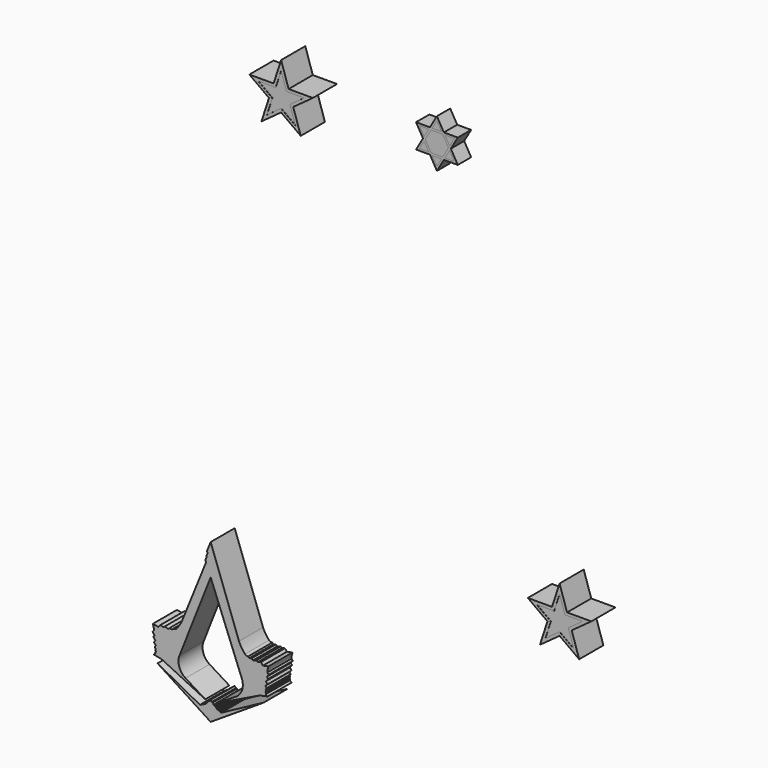
from build123d import *

# Parameters (mm, degrees)
F1_DEPTH  = 1.8
F3_DEPTH  = 1.8
F4_DEPTH  = 1.81
F5_R      = 0.893
F7_DEPTH  = 1
F8_DEPTH  = 1
F10_DEPTH = 1.8
F11_DEPTH = 1.81


with BuildPart() as f1:
    # F0 (on Front) → F1 (new body)
    with BuildSketch(Plane.XZ):
        with BuildLine():
            Line((-3.7793989759, 7.9456018284), (-3.7793989759, 9.8047899082))
            Line((-3.7793989759, 9.8047899082), (-4.0033652825, 9.248157989))
            Line((-4.0033652825, 9.248157989), (-3.9641365643, 9.1561737096))
            Line((-3.9641365643, 9.1561737096), (-4.0387919998, 8.9706297365))
            Line((-4.0387919998, 8.9706297365), (-4.0231005125, 8.9338360247))
            Line((-4.0231005125, 8.9338360247), (-4.097755948, 8.7482920516))
            Line((-4.097755948, 8.7482920516), (-4.054604358, 8.6471093442))
            Line((-4.054604358, 8.6471093442), (-5.4790983376, 5.1242104098))
            ThreePointArc((-5.4790983376, 5.1242104098), (-5.6323983996, 4.827205661), (-5.8375750668, 4.5633586124))
            ThreePointArc((-5.8375750668, 4.5633586124), (-5.9248345866, 4.5112394922), (-6.0261441395, 4.5030540787))
            Line((-6.0261441395, 4.5030540787), (-6.0897720978, 4.4295368716))
            Line((-6.0897720978, 4.4295368716), (-6.2369024381, 4.4733928517))
            Line((-6.2369024381, 4.4733928517), (-6.3161267899, 4.3899244629))
            Line((-6.3161267899, 4.3899244629), (-6.5257647075, 4.4602202252))
            Line((-6.5257647075, 4.4602202252), (-6.6037159413, 4.3946066871))
            Line((-6.6037159413, 4.3946066871), (-6.7897163977, 4.4500489044))
            Line((-6.7897163977, 4.4500489044), (-6.9095618092, 4.3085110374))
            Line((-6.9095618092, 4.3085110374), (-7.2381282225, 4.3713827617))
            Line((-7.2381282225, 4.3713827617), (-7.1835005656, 4.156332463))
            Line((-7.1835005656, 4.156332463), (-7.1793515235, 4.0299049579))
            Line((-7.1793515235, 4.0299049579), (-7.2624403983, 3.9427652955))
            Line((-7.2624403983, 3.9427652955), (-7.1368645877, 3.7887748331))
            Line((-7.1368645877, 3.7887748331), (-7.2138416581, 3.6987969652))
            Line((-7.2138416581, 3.6987969652), (-7.0916982368, 3.5390290432))
            Line((-7.0916982368, 3.5390290432), (-7.1835005656, 3.4045812208))
            Line((-7.1835005656, 3.4045812208), (-7.0657618344, 3.2955408096))
            Line((-7.0657618344, 3.2955408096), (-7.1276929229, 3.1843830366))
            Line((-7.1276929229, 3.1843830366), (-7.0657618344, 3.0859292019))
            Line((-7.0657618344, 3.0859292019), (-7.102814503, 3.0345849227))
            Line((-7.102814503, 3.0345849227), (-7.0567633957, 2.9625971802))
            Line((-7.0567633957, 2.9625971802), (-7.099638693, 2.9128410388))
            Line((-7.099638693, 2.9128410388), (-7.0827002637, 2.853556769))
            Line((-7.0827002637, 2.853556769), (-7.1885641664, 2.7678066399))
            Line((-7.1885641664, 2.7678066399), (-6.7201144993, 2.6730580721))
            Line((-6.7201144993, 2.6730580721), (-4.1001443751, 1.4036657522))
            Line((-4.1001443751, 1.4036657522), (-5.2828337066, 2.1371461917))
            ThreePointArc((-5.2828337066, 2.1371461917), (-5.5300829552, 2.3406050203), (-5.7149343193, 2.6020579971))
            ThreePointArc((-5.7149343193, 2.6020579971), (-5.7378065234, 2.8848545246), (-5.6684375741, 3.1599635258))
            Line((-5.6684375741, 3.1599635258), (-3.7793989759, 7.9456018284))
        make_face()
        with BuildLine():
            Line((-2.0796996142, 5.1242104098), (-3.7793989759, 9.8047899082))
            Line((-3.7793989759, 9.8047899082), (-3.7793989759, 7.9456018284))
            Line((-3.7793989759, 7.9456018284), (-1.8903603777, 3.1599635258))
            ThreePointArc((-1.8903603777, 3.1599635258), (-1.8209914283, 2.8848545246), (-1.8438636325, 2.6020579971))
            ThreePointArc((-1.8438636325, 2.6020579971), (-2.0287149966, 2.3406050203), (-2.2759642452, 2.1371461917))
            Line((-2.2759642452, 2.1371461917), (-3.4586535767, 1.4036657522))
            Line((-3.4586535767, 1.4036657522), (-0.8386834525, 2.6730580721))
            Line((-0.8386834525, 2.6730580721), (-0.3702337854, 2.7678066399))
            Line((-0.3702337854, 2.7678066399), (-0.4760976881, 2.853556769))
            Line((-0.4760976881, 2.853556769), (-0.4591592588, 2.9128410388))
            Line((-0.4591592588, 2.9128410388), (-0.5020345561, 2.9625971802))
            Line((-0.5020345561, 2.9625971802), (-0.4559834488, 3.0345849227))
            Line((-0.4559834488, 3.0345849227), (-0.4930361174, 3.0859292019))
            Line((-0.4930361174, 3.0859292019), (-0.4311050288, 3.1843830366))
            Line((-0.4311050288, 3.1843830366), (-0.4930361174, 3.2955408096))
            Line((-0.4930361174, 3.2955408096), (-0.3752973862, 3.4045812208))
            Line((-0.3752973862, 3.4045812208), (-0.467099715, 3.5390290432))
            Line((-0.467099715, 3.5390290432), (-0.3449562937, 3.6987969652))
            Line((-0.3449562937, 3.6987969652), (-0.4219333641, 3.7887748331))
            Line((-0.4219333641, 3.7887748331), (-0.2963575535, 3.9427652955))
            Line((-0.2963575535, 3.9427652955), (-0.3794464283, 4.0299049579))
            Line((-0.3794464283, 4.0299049579), (-0.3752973862, 4.156332463))
            Line((-0.3752973862, 4.156332463), (-0.3206697293, 4.3713827617))
            Line((-0.3206697293, 4.3713827617), (-0.6492361426, 4.3085110374))
            Line((-0.6492361426, 4.3085110374), (-0.7690815541, 4.4500489044))
            Line((-0.7690815541, 4.4500489044), (-0.9550820105, 4.3946066871))
            Line((-0.9550820105, 4.3946066871), (-1.0330332443, 4.4602202252))
            Line((-1.0330332443, 4.4602202252), (-1.2426711619, 4.3899244629))
            Line((-1.2426711619, 4.3899244629), (-1.3218955137, 4.4733928517))
            Line((-1.3218955137, 4.4733928517), (-1.469025854, 4.4295368716))
            Line((-1.469025854, 4.4295368716), (-1.5326538123, 4.5030540787))
            ThreePointArc((-1.5326538123, 4.5030540787), (-1.6339633651, 4.5112394922), (-1.721222885, 4.5633586124))
            ThreePointArc((-1.721222885, 4.5633586124), (-1.9263995522, 4.827205661), (-2.0796996142, 5.1242104098))
        make_face()
    extrude(amount=F1_DEPTH)

    # F5
    f5_edges = [f1.edges().sort_by_distance(p)[0] for p in [
        (-5.714934, -0.9, 2.602058),
        (-1.843864, -0.9, 2.602058),
    ]]
    fillet(f5_edges, radius=F5_R)


with BuildPart() as f1b:
    # F0 (on Front) → F1, piece 2 (new body)
    with BuildSketch(Plane.XZ):
        Polygon((-3.7793989759, 0.318722683), (-3.7793989759, 1.4865868725), (-3.8406099193, 1.3890828704), (-3.9181523025, 1.3890828704), (-3.9626820944, 1.2808304746), (-4.0110498667, 1.2808304746), (-4.0294760838, 1.2086620554), (-4.0832185186, 1.2086620554), (-4.0985732339, 1.161061693), (-4.1492446326, 1.161061693), (-4.1761160828, 1.0981063824), (-4.269013647, 1.1073193746), (-4.2909947224, 1.0493458249), (-4.3744626455, 1.0493458249), (-4.3927598745, 0.9977417067), (-6.9610150531, 2.3745328654), align=None)
        Polygon((-3.7181880325, 1.3890828704), (-3.7793989759, 1.4865868725), (-3.7793989759, 0.318722683), (-0.5977828987, 2.3745328654), (-3.1660380773, 0.9977417067), (-3.1843353063, 1.0493458249), (-3.2678032294, 1.0493458249), (-3.2897843048, 1.1073193746), (-3.382681869, 1.0981063824), (-3.4095533192, 1.161061693), (-3.4602247179, 1.161061693), (-3.4755794331, 1.2086620554), (-3.529321868, 1.2086620554), (-3.5477480851, 1.2808304746), (-3.5961158574, 1.2808304746), (-3.6406456493, 1.3890828704), align=None)
    extrude(amount=F1_DEPTH)


with BuildPart() as f3:
    # F2 (on Front) → F3 (new body)
    with BuildSketch(Plane.XZ):
        Polygon((0.9747593195, 34.4312912469), (0.4490279766, 34.6021117151), (1.2996791584, 33.4312908079), align=None)
        Polygon((1.8254105013, 35.049325507), (0.4490279766, 34.6021117151), (0.9747593195, 34.4312912469), align=None)
        Polygon((0.4490279766, 34.6021117151), (-0.4016232052, 33.4312908079), (0.4490279766, 34.049325068), align=None)
        Polygon((1.2996791584, 33.4312908079), (0.4490279766, 34.6021117151), (0.4490279766, 34.049325068), align=None)
        Polygon((0.7739478155, 35.049325507), (0.4490279766, 34.6021117151), (1.8254105013, 35.049325507), align=None)
        Polygon((0.4490279766, 34.6021117151), (-0.0767033663, 34.4312912469), (-0.4016232052, 33.4312908079), align=None)
        Polygon((0.4490279766, 36.0493259459), (0.4490279766, 34.6021117151), (0.7739478155, 35.049325507), align=None)
        Polygon((0.1241081377, 35.049325507), (0.4490279766, 34.6021117151), (0.4490279766, 36.0493259459), align=None)
        Polygon((0.1241081377, 35.049325507), (-0.9273545481, 35.049325507), (0.4490279766, 34.6021117151), align=None)
        Polygon((-0.9273545481, 35.049325507), (-0.0767033663, 34.4312912469), (0.4490279766, 34.6021117151), align=None)
    extrude(amount=F3_DEPTH)


with BuildPart() as f4:
    # F2 (on Front) → F4 (new body)
    with BuildSketch(Plane.XZ):
        Polygon((0.4490279766, 36.6021117151), (0, 35.2201457039), (0.1241081377, 35.049325507), (0.4490279766, 36.0493259459), align=None)
        Polygon((0.8980559532, 35.2201457039), (0.4490279766, 36.6021117151), (0.4490279766, 36.0493259459), (0.7739478154, 35.049325507), align=None)
        Polygon((2.3511410092, 35.2201457039), (0.8980559532, 35.2201457039), (0.7739478155, 35.049325507), (1.8254105013, 35.049325507), align=None)
        Polygon((1.1755705046, 34.3660437376), (2.3511410092, 35.2201457039), (1.8254105013, 35.049325507), (0.9747593195, 34.4312912469), align=None)
        Polygon((1.2996791584, 33.4312908079), (1.6245984812, 32.9840777264), (1.1755705046, 34.3660437376), (0.9747593195, 34.4312912469), align=None)
        Polygon((0.4490279766, 34.049325068), (0.4490279766, 33.8381796926), (1.6245984812, 32.9840777264), (1.2996791584, 33.4312908079), align=None)
        Polygon((-0.4016232052, 33.4312908079), (-0.726542528, 32.9840777264), (0.4490279766, 33.8381796926), (0.4490279766, 34.049325068), align=None)
        Polygon((-0.0767033663, 34.4312912469), (-0.2775145514, 34.3660437376), (-0.726542528, 32.9840777264), (-0.4016232052, 33.4312908079), align=None)
        Polygon((-1.453085056, 35.2201457039), (-0.2775145514, 34.3660437376), (-0.0767033663, 34.4312912469), (-0.9273545481, 35.049325507), align=None)
        Polygon((0, 35.2201457039), (-1.453085056, 35.2201457039), (-0.9273545481, 35.049325507), (0.1241081377, 35.049325507), align=None)
    extrude(amount=F4_DEPTH)


with BuildPart() as f7:
    # F6 (on Front) → F7 (new body)
    with BuildSketch(Plane.XZ):
        Polygon((8.368973532, 34.5720523699), (8.2995295193, 34.6923329282), (7.8828628526, 33.9706450917), (8.7161961859, 33.9706450917), (8.6467521732, 34.0909256501), (8.5078641478, 34.0909256501), (8.0911948908, 34.0909256501), (8.2995295193, 34.4517718115), align=None)
        Polygon((8.0911948908, 35.2937402064), (7.8828628526, 35.4140207647), (8.0959111253, 35.045010332), (8.2000771444, 35.1051506112), align=None)
        Polygon((8.5078641478, 35.2937402064), (8.7161961859, 35.4140207647), (7.8828628526, 35.4140207647), (8.0911948908, 35.2937402064), align=None)
        Polygon((8.2000771444, 35.1051506112), (8.0959111253, 35.045010332), (8.2995295193, 34.6923329282), (8.2995295193, 34.9328940449), align=None)
        Polygon((8.2995295193, 34.6923329282), (8.368973532, 34.8126134865), (8.2995295193, 34.9328940449), align=None)
        Polygon((8.6467521732, 35.2937402064), (8.7161961859, 35.4140207647), (8.5078641478, 35.2937402064), align=None)
        Polygon((8.6120288717, 34.9930365673), (8.5078628526, 35.0531768465), (8.368973532, 34.8126134865), (8.4384175447, 34.6923329282), align=None)
        Polygon((8.7856401987, 35.2937402064), (8.6467521732, 35.2937402064), (8.5078628526, 35.0531768465), (8.6120288717, 34.9930365673), align=None)
        Polygon((8.8550842114, 35.4140207647), (8.7161961859, 35.4140207647), (8.6467521732, 35.2937402064), (8.7856401987, 35.2937402064), align=None)
        Polygon((8.7856401987, 34.0909256501), (8.4384175447, 34.6923329282), (8.368973532, 34.5720523699), (8.6467521732, 34.0909256501), align=None)
        Polygon((8.8550842114, 33.9706450917), (8.7856401987, 34.0909256501), (8.6467521732, 34.0909256501), (8.7161961859, 33.9706450917), align=None)
        Polygon((8.4384175447, 34.6923329282), (8.2995295193, 34.6923329282), (8.368973532, 34.5720523699), align=None)
        Polygon((8.4384175447, 34.6923329282), (8.368973532, 34.8126134865), (8.2995295193, 34.6923329282), align=None)
        Polygon((8.8550842114, 33.9706450917), (8.7161961859, 33.9706450917), (9.1328628526, 33.2489572552), (9.1328628526, 33.4895183719), (8.9245282241, 33.8503645334), align=None)
        Polygon((9.1328628526, 34.0909256501), (8.7856401987, 34.0909256501), (8.8550842114, 33.9706450917), (9.1328628526, 33.9706450917), align=None)
        Polygon((9.4106414938, 33.9706450917), (9.4800855066, 34.0909256501), (9.1328628526, 34.0909256501), (9.1328628526, 33.9706450917), align=None)
        Polygon((9.1328628526, 33.2489572552), (9.5495295193, 33.9706450917), (9.4106414938, 33.9706450917), (9.3411974811, 33.8503645334), (9.1328628526, 33.4895183719), align=None)
        Polygon((9.618973532, 34.0909256501), (9.4800855066, 34.0909256501), (9.4106414938, 33.9706450917), (9.5495295193, 33.9706450917), align=None)
        Polygon((10.3828628526, 33.9706450917), (9.9661961859, 34.6923329282), (9.8967521732, 34.5720523699), (9.9661961859, 34.4517718115), (10.1745308144, 34.0909256501), (9.7578615575, 34.0909256501), (9.618973532, 34.0909256501), (9.5495295193, 33.9706450917), align=None)
        Polygon((9.8967521732, 34.5720523699), (9.8273081605, 34.6923329282), (9.4800855066, 34.0909256501), (9.618973532, 34.0909256501), align=None)
        Polygon((9.8967521732, 34.5720523699), (9.9661961859, 34.6923329282), (9.8273081605, 34.6923329282), align=None)
        Polygon((9.9661961859, 34.6923329282), (9.8967521732, 34.8126134865), (9.8273081605, 34.6923329282), align=None)
        Polygon((9.8967521732, 34.8126134865), (9.618973532, 35.2937402064), (9.4800855065, 35.2937402064), (9.8273081605, 34.6923329282), align=None)
        Polygon((10.3828628526, 35.4140207647), (9.5495295193, 35.4140207647), (9.618973532, 35.2937402064), (9.7578615575, 35.2937402064), (10.1745308144, 35.2937402064), (9.9661961859, 34.9328940449), (9.8967521732, 34.8126134865), (9.9661961859, 34.6923329282), align=None)
        Polygon((9.618973532, 35.2937402064), (9.5495295193, 35.4140207647), (9.4106414938, 35.4140207647), (9.4800855065, 35.2937402064), align=None)
        Polygon((9.5495295193, 35.4140207647), (9.1328628526, 36.1357086012), (9.1328628526, 35.8951474845), (9.3411974811, 35.534301323), (9.4106414938, 35.4140207647), align=None)
        Polygon((9.1328628526, 35.8951474845), (9.1328628526, 36.1357086012), (8.7161961859, 35.4140207647), (8.8550842114, 35.4140207647), (8.9245282241, 35.534301323), align=None)
        Polygon((9.4800855065, 35.2937402064), (9.4106414938, 35.4140207647), (9.1328628526, 35.4140207647), (9.1328628526, 35.2937402064), align=None)
        Polygon((9.1328628526, 35.4140207647), (8.8550842114, 35.4140207647), (8.7856401987, 35.2937402064), (9.1328628526, 35.2937402064), align=None)
    extrude(amount=F7_DEPTH)


with BuildPart() as f8:
    # F6 (on Front) → F8 (new body)
    with BuildSketch(Plane.XZ):
        Polygon((8.4036968335, 35.1133171256), (8.5078641478, 35.2937402064), (8.0911948908, 35.2937402064), (8.2000771444, 35.1051506112), (8.2995295193, 34.9328940449), align=None)
        Polygon((8.5078628526, 35.0531768465), (8.6467521732, 35.2937402064), (8.5078641478, 35.2937402064), (8.4036968335, 35.1133171256), align=None)
        Polygon((8.368973532, 34.8126134865), (8.5078628526, 35.0531768465), (8.4036968335, 35.1133171256), (8.2995295193, 34.9328940449), align=None)
    extrude(amount=F8_DEPTH)


with BuildPart() as f8b:
    # F6 (on Front) → F8, piece 2 (new body)
    with BuildSketch(Plane.XZ):
        Polygon((8.6467521732, 34.0909256501), (8.368973532, 34.5720523699), (8.2995295193, 34.4517718115), (8.5078641478, 34.0909256501), align=None)
        Polygon((8.5078641478, 34.0909256501), (8.2995295193, 34.4517718115), (8.0911948908, 34.0909256501), align=None)
    extrude(amount=F8_DEPTH)


with BuildPart() as f8c:
    # F6 (on Front) → F8, piece 3 (new body)
    with BuildSketch(Plane.XZ):
        Polygon((8.9245282241, 33.8503645334), (9.1328628526, 33.4895183719), (9.1328628526, 33.8503645334), align=None)
        Polygon((9.1328628526, 33.9706450917), (8.8550842114, 33.9706450917), (8.9245282241, 33.8503645334), (9.1328628526, 33.8503645334), align=None)
        Polygon((9.3411974811, 33.8503645334), (9.4106414938, 33.9706450917), (9.1328628526, 33.9706450917), (9.1328628526, 33.8503645334), align=None)
        Polygon((9.1328628526, 33.4895183719), (9.3411974811, 33.8503645334), (9.1328628526, 33.8503645334), align=None)
    extrude(amount=F8_DEPTH)


with BuildPart() as f8d:
    # F6 (on Front) → F8, piece 4 (new body)
    with BuildSketch(Plane.XZ):
        Polygon((10.1745308144, 34.0909256501), (9.9661961859, 34.4517718115), (9.7578615575, 34.0909256501), align=None)
        Polygon((9.9661961859, 34.4517718115), (9.8967521732, 34.5720523699), (9.618973532, 34.0909256501), (9.7578615575, 34.0909256501), align=None)
    extrude(amount=F8_DEPTH)


with BuildPart() as f8e:
    # F6 (on Front) → F8, piece 5 (new body)
    with BuildSketch(Plane.XZ):
        Polygon((10.1745308144, 35.2937402064), (9.7578615575, 35.2937402064), (9.9661961859, 34.9328940449), align=None)
        Polygon((9.7578615575, 35.2937402064), (9.618973532, 35.2937402064), (9.8967521732, 34.8126134865), (9.9661961859, 34.9328940449), align=None)
    extrude(amount=F8_DEPTH)


with BuildPart() as f8f:
    # F6 (on Front) → F8, piece 6 (new body)
    with BuildSketch(Plane.XZ):
        Polygon((9.1328628526, 35.4140207647), (9.4106414938, 35.4140207647), (9.3411974811, 35.534301323), (9.1328628526, 35.534301323), align=None)
        Polygon((9.3411974811, 35.534301323), (9.1328628526, 35.8951474845), (9.1328628526, 35.534301323), align=None)
        Polygon((9.1328628526, 35.534301323), (9.1328628526, 35.8951474845), (8.9245282241, 35.534301323), align=None)
        Polygon((8.9245282241, 35.534301323), (8.8550842114, 35.4140207647), (9.1328628526, 35.4140207647), (9.1328628526, 35.534301323), align=None)
    extrude(amount=F8_DEPTH)


with BuildPart() as f8g:
    # F6 (on Front) → F8, piece 7 (new body)
    with BuildSketch(Plane.XZ):
        Polygon((9.1328628526, 34.6923329282), (8.4384175447, 34.6923329282), (8.7856401987, 34.0909256501), (9.1328628526, 34.0909256501), align=None)
        Polygon((9.1328628526, 35.2937402064), (8.7856401987, 35.2937402064), (8.6120288717, 34.9930365673), (8.4384175447, 34.6923329282), (9.1328628526, 34.6923329282), align=None)
        Polygon((9.8273081605, 34.6923329282), (9.4800855065, 35.2937402064), (9.1328628526, 35.2937402064), (9.1328628526, 34.6923329282), align=None)
        Polygon((9.4800855066, 34.0909256501), (9.8273081605, 34.6923329282), (9.1328628526, 34.6923329282), (9.1328628526, 34.0909256501), align=None)
    extrude(amount=F8_DEPTH)


with BuildPart() as f10:
    # F9 (on Front) → F10 (new body)
    with BuildSketch(Plane.XZ):
        Polygon((17.1289453283, 12.425064138), (17.1289453283, 11.8722772167), (17.6546769319, 12.2542435851), (17.4538653283, 12.8722781516), (16.8040253283, 12.8722781516), align=None)
        Polygon((16.6032137247, 12.2542435851), (17.1289453283, 11.8722772167), (17.1289453283, 12.425064138), (16.8040253283, 12.8722781516), align=None)
        Polygon((16.4579032057, 12.3598178569), (16.6032137247, 12.2542435851), (16.8040253283, 12.8722781516), (16.624411649, 12.8722781516), align=None)
        Polygon((15.752562121, 12.8722781516), (16.4579032057, 12.3598178569), (16.624411649, 12.8722781516), align=None)
        Polygon((16.9836348093, 11.7667029449), (17.1289453283, 11.8722772167), (16.6032137247, 12.2542435851), (16.5477100453, 12.0834208249), align=None)
        Polygon((16.2782937247, 11.2542426502), (16.9836348093, 11.7667029449), (16.5477100453, 12.0834208249), align=None)
        Polygon((17.7101806113, 12.0834208249), (17.2742558473, 11.7667029449), (17.9795969319, 11.2542426502), align=None)
        Polygon((17.6546769319, 12.2542435851), (17.1289453283, 11.8722772167), (17.2742558473, 11.7667029449), (17.7101806113, 12.0834208249), align=None)
        Polygon((17.6334790076, 12.8722781516), (17.7999874509, 12.3598178569), (18.5053285355, 12.8722781516), align=None)
        Polygon((17.4538653283, 12.8722781516), (17.6546769319, 12.2542435851), (17.7999874509, 12.3598178569), (17.6334790076, 12.8722781516), align=None)
        Polygon((16.8595290076, 13.0431009118), (16.8040253283, 12.8722781516), (17.4538653283, 12.8722781516), (17.398361649, 13.0431009118), align=None)
        Polygon((17.1289453283, 13.8722790865), (16.8595290076, 13.0431009118), (17.398361649, 13.0431009118), align=None)
    extrude(amount=F10_DEPTH)


with BuildPart() as f11:
    # F9 (on Front) → F11 (new body)
    with BuildSketch(Plane.XZ):
        Polygon((16.4023995263, 12.1889950968), (16.4579032057, 12.3598178569), (15.752562121, 12.8722781516), (16.624411649, 12.8722781516), (16.6799153283, 13.0431009118), (15.2268237244, 13.0431009118), align=None)
        Polygon((16.6799153283, 13.0431009118), (16.8040253283, 12.8722781516), (16.8595290076, 13.0431009118), align=None)
        Polygon((17.398361649, 13.0431009118), (17.4538653283, 12.8722781516), (17.6334790076, 12.8722781516), (17.5779753283, 13.0431009118), align=None)
        Polygon((18.5053285355, 12.8722781516), (17.7999874509, 12.3598178569), (17.8554911303, 12.1889950968), (19.0310669322, 13.0431009118), (17.5779753283, 13.0431009118), (17.6334790076, 12.8722781516), align=None)
        Polygon((16.624411649, 12.8722781516), (16.8040253283, 12.8722781516), (16.6799153283, 13.0431009118), align=None)
        Polygon((16.5477100453, 12.0834208249), (16.6032137247, 12.2542435851), (16.4579032057, 12.3598178569), (16.4023995263, 12.1889950968), align=None)
        Polygon((17.1289453283, 11.6611286731), (16.9836348093, 11.7667029449), (16.2782937247, 11.2542426502), (16.5477100453, 12.0834208249), (16.4023995263, 12.1889950968), (15.9533695263, 10.8070228581), align=None)
        Polygon((17.2742558473, 11.7667029449), (17.1289453283, 11.6611286731), (18.3045211303, 10.8070228581), (17.8554911303, 12.1889950968), (17.7101806113, 12.0834208249), (17.9795969319, 11.2542426502), align=None)
        Polygon((17.1289453283, 11.6611286731), (17.1289453283, 11.8722772167), (16.9836348093, 11.7667029449), align=None)
        Polygon((17.2742558473, 11.7667029449), (17.1289453283, 11.8722772167), (17.1289453283, 11.6611286731), align=None)
        Polygon((17.7999874509, 12.3598178569), (17.6546769319, 12.2542435851), (17.7101806113, 12.0834208249), (17.8554911303, 12.1889950968), align=None)
        Polygon((17.1289453283, 14.4250731505), (16.6799153283, 13.0431009118), (16.8595290076, 13.0431009118), (17.1289453283, 13.8722790865), (17.398361649, 13.0431009118), (17.5779753283, 13.0431009118), align=None)
    extrude(amount=F11_DEPTH)


solid = Compound([f1.part, f1b.part, f3.part, f4.part, f7.part, f8.part, f8b.part, f8c.part, f8d.part, f8e.part, f8f.part, f8g.part, f10.part, f11.part])
